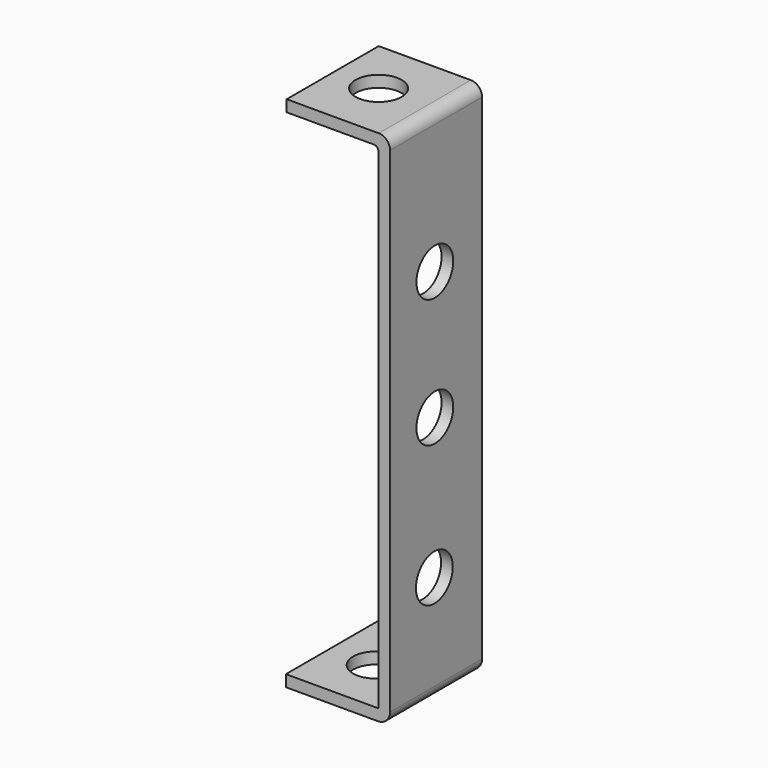
from build123d import *

# Parameters (mm, degrees)
CYLINDER030_R               = 2
CYLINDER030_DEPTH           = 10
CYLINDER030_PITCH_ANGLE     = 90
CYLINDER030_PLACEMENT_ANGLE = 7e-06
CYLINDER031_R               = 2
CYLINDER031_DEPTH           = 10
CYLINDER031_PITCH_ANGLE     = 90
CYLINDER031_PLACEMENT_ANGLE = 7e-06
CYLINDER026_R               = 2
CYLINDER026_DEPTH           = 2
CYLINDER026_ROLL_ANGLE      = -88.507054
CYLINDER026_PITCH_ANGLE     = -87.01751
CYLINDER026_PLACEMENT_ANGLE = -92.244015
CYLINDER028_R               = 2
CYLINDER028_DEPTH           = 2
CYLINDER028_PLACEMENT_ANGLE = 90.00001
CYLINDER029_R               = 2
CYLINDER029_DEPTH           = 2
CYLINDER029_ROLL_ANGLE      = 90
CYLINDER027_R               = 2
CYLINDER027_DEPTH           = 2
CYLINDER027_ROLL_ANGLE      = 90
CYLINDER025_R               = 2
CYLINDER025_DEPTH           = 2
CYLINDER025_ROLL_ANGLE      = -88.507054
CYLINDER025_PITCH_ANGLE     = -87.01751
CYLINDER025_PLACEMENT_ANGLE = -92.244015
PAD006_DEPTH                = 10
CUT030_PITCH_ANGLE          = 90
CUT030_PLACEMENT_ANGLE      = 90


with BuildPart() as cylinder030:
    # Cylinder030 → Cylinder030 (new body)
    with BuildSketch(Plane.XY):
        Circle(CYLINDER030_R)
    extrude(amount=CYLINDER030_DEPTH)


with BuildPart() as cylinder030_1:
    # Cylinder030 pitch: moved
    add(cylinder030.part.rotate(Axis((0, 0, 0), (0, 1, 0)), CYLINDER030_PITCH_ANGLE))


with BuildPart() as cylinder030_2:
    # Cylinder030 placement: moved
    add(cylinder030_1.part.moved(Location((15.49, 3.9, 4.87))).rotate(Axis((15.49, 3.9, 4.87), (0, 0, 1)), CYLINDER030_PLACEMENT_ANGLE))


with BuildPart() as cylinder031:
    # Cylinder031 → Cylinder031 (new body)
    with BuildSketch(Plane.XY):
        Circle(CYLINDER031_R)
    extrude(amount=CYLINDER031_DEPTH)


with BuildPart() as cylinder031_1:
    # Cylinder031 pitch: moved
    add(cylinder031.part.rotate(Axis((0, 0, 0), (0, 1, 0)), CYLINDER031_PITCH_ANGLE))


with BuildPart() as cylinder031_2:
    # Cylinder031 placement: moved
    add(cylinder031_1.part.moved(Location((-28.4147, 3.9, 5.14))).rotate(Axis((-28.4147, 3.9, 5.14), (0, 0, 1)), CYLINDER031_PLACEMENT_ANGLE))


with BuildPart() as cylinder026:
    # Cylinder026 → Cylinder026 (new body)
    with BuildSketch(Plane.XY):
        Circle(CYLINDER026_R)
    extrude(amount=CYLINDER026_DEPTH)


with BuildPart() as cylinder026_1:
    # Cylinder026 roll: moved
    add(cylinder026.part.rotate(Axis((0, 0, 0), (1, 0, 0)), CYLINDER026_ROLL_ANGLE))


with BuildPart() as cylinder026_2:
    # Cylinder026 pitch: moved
    add(cylinder026_1.part.rotate(Axis((0, 0, 0), (0, 1, 0)), CYLINDER026_PITCH_ANGLE))


with BuildPart() as cylinder026_3:
    # Cylinder026 placement: moved
    add(cylinder026_2.part.moved(Location((-26, 5.29, 4.9))).rotate(Axis((-26, 5.29, 4.9), (0, 0, 1)), CYLINDER026_PLACEMENT_ANGLE))


with BuildPart() as cylinder028:
    # Cylinder028 → Cylinder028 (new body)
    with BuildSketch(Plane.XY):
        Circle(CYLINDER028_R)
    extrude(amount=CYLINDER028_DEPTH)


with BuildPart() as cylinder028_1:
    # Cylinder028 placement: moved
    add(cylinder028.part.moved(Location((-11.1555, 0, 4.86401))).rotate(Axis((-11.1555, 0, 4.86401), (1, 0, 0)), CYLINDER028_PLACEMENT_ANGLE))


with BuildPart() as cylinder029:
    # Cylinder029 → Cylinder029 (new body)
    with BuildSketch(Plane.XY):
        Circle(CYLINDER029_R)
    extrude(amount=CYLINDER029_DEPTH)


with BuildPart() as cylinder029_1:
    # Cylinder029 roll: moved
    add(cylinder029.part.rotate(Axis((0, 0, 0), (1, 0, 0)), CYLINDER029_ROLL_ANGLE))


with BuildPart() as cylinder029_2:
    # Cylinder029 placement: moved
    add(cylinder029_1.part.moved(Location((0, 0, 4.86401))))


with BuildPart() as cylinder027:
    # Cylinder027 → Cylinder027 (new body)
    with BuildSketch(Plane.XY):
        Circle(CYLINDER027_R)
    extrude(amount=CYLINDER027_DEPTH)


with BuildPart() as cylinder027_1:
    # Cylinder027 roll: moved
    add(cylinder027.part.rotate(Axis((0, 0, 0), (1, 0, 0)), CYLINDER027_ROLL_ANGLE))


with BuildPart() as cylinder027_2:
    # Cylinder027 placement: moved
    add(cylinder027_1.part.moved(Location((12.2129, 0, 4.81114))))


with BuildPart() as cylinder025:
    # Cylinder025 → Cylinder025 (new body)
    with BuildSketch(Plane.XY):
        Circle(CYLINDER025_R)
    extrude(amount=CYLINDER025_DEPTH)


with BuildPart() as cylinder025_1:
    # Cylinder025 roll: moved
    add(cylinder025.part.rotate(Axis((0, 0, 0), (1, 0, 0)), CYLINDER025_ROLL_ANGLE))


with BuildPart() as cylinder025_2:
    # Cylinder025 pitch: moved
    add(cylinder025_1.part.rotate(Axis((0, 0, 0), (0, 1, 0)), CYLINDER025_PITCH_ANGLE))


with BuildPart() as cylinder025_3:
    # Cylinder025 placement: moved
    add(cylinder025_2.part.moved(Location((25, 5.38, 4.9))).rotate(Axis((25, 5.38, 4.9), (0, 0, 1)), CYLINDER025_PLACEMENT_ANGLE))


with BuildPart() as cut030:
    # Sketch007 → Pad006 (new body)
    with BuildSketch(Plane.XY):
        with BuildLine():
            Line((20.546084, -1.208272), (-22.415471, -1.208272))
            ThreePointArc((-23.400725, -0.223018), (-23.112151, -0.919698), (-22.415471, -1.208272))
            Line((-23.400725, 7.776982), (-23.400725, -0.223018))
            Line((-23.400725, 7.776982), (-22.400725, 7.776982))
            Line((-22.400725, 7.776982), (-22.400725, 0.197829))
            ThreePointArc((-22.400725, 0.197829), (-22.286166, -0.07874), (-22.009596, -0.193299))
            Line((-22.009596, -0.193299), (20.555186, -0.193299))
            ThreePointArc((20.555186, -0.193299), (20.586324, -0.180401), (20.599222, -0.149263))
            Line((20.599222, 7.844865), (20.599222, -0.149263))
            Line((21.599222, 7.844865), (20.599222, 7.844865))
            Line((21.599222, 7.844865), (21.599222, -0.155135))
            ThreePointArc((20.546084, -1.208272), (21.290765, -0.899815), (21.599222, -0.155135))
        make_face()
    extrude(amount=PAD006_DEPTH)

    # Cut005: cut Cylinder025
    add(cylinder025_3.part, mode=Mode.SUBTRACT)

    # Cut006: cut Cylinder027
    add(cylinder027_2.part, mode=Mode.SUBTRACT)

    # Cut007: cut Cylinder029
    add(cylinder029_2.part, mode=Mode.SUBTRACT)

    # Cut008: cut Cylinder028
    add(cylinder028_1.part, mode=Mode.SUBTRACT)

    # Cut009: cut Cylinder026
    add(cylinder026_3.part, mode=Mode.SUBTRACT)

    # Cut018: cut Cylinder031
    add(cylinder031_2.part, mode=Mode.SUBTRACT)

    # Cut030: cut Cylinder030
    add(cylinder030_2.part, mode=Mode.SUBTRACT)


with BuildPart() as cut030_1:
    # Cut030 pitch: moved
    add(cut030.part.rotate(Axis((0, 0, 0), (0, 1, 0)), CUT030_PITCH_ANGLE))


with BuildPart() as cut030_2:
    # Cut030 placement: moved
    add(cut030_1.part.moved(Location((-6.72542, 45.23, 76))).rotate(Axis((-6.72542, 45.23, 76), (0, 0, 1)), CUT030_PLACEMENT_ANGLE))


solid = cut030_2.part
